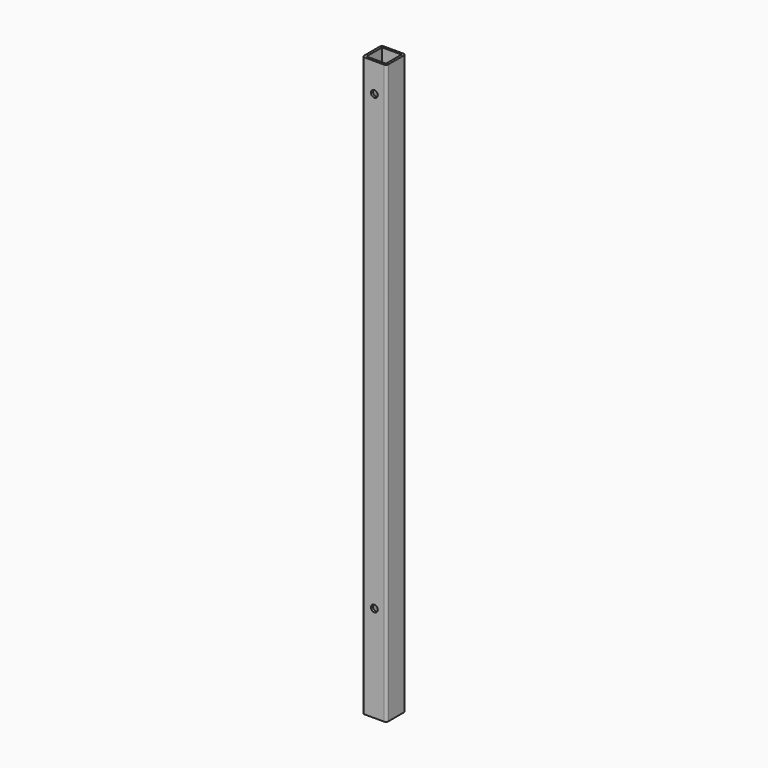
from build123d import *

# Parameters (mm, degrees)
F0_W     = 31.75
F0_H     = 31.75
F1_DEPTH = 762
F2_R     = 3.175
F3_T     = -3.048
F4_R     = 4.5
F5_DEPTH = 15.875


with BuildPart() as f1:
    # F0 (on Top) → F1 (new body)
    with BuildSketch(Plane.XY):
        Rectangle(F0_W, F0_H)
    extrude(amount=-F1_DEPTH)

    # F2
    f2_edges = [f1.edges().sort_by_distance(p)[0] for p in [
        (-15.875, 15.875, -381),
        (-15.875, -15.875, -381),
        (15.875, 15.875, -381),
        (15.875, -15.875, -381),
    ]]
    fillet(f2_edges, radius=F2_R)

    # F3
    f3_openings = [f1.faces().sort_by_distance(p)[0] for p in [
        (0, 0, 0),
        (0, 0, -762),
    ]]
    offset(amount=F3_T, openings=f3_openings)

    # F4 (on Front) → F5 (cut, through all)
    with BuildSketch(Plane.XZ):
        with Locations((0, -38.1)):
            Circle(F4_R)
        with Locations((0, -635)):
            Circle(F4_R)
    extrude(amount=F5_DEPTH, mode=Mode.SUBTRACT)


solid = f1.part
